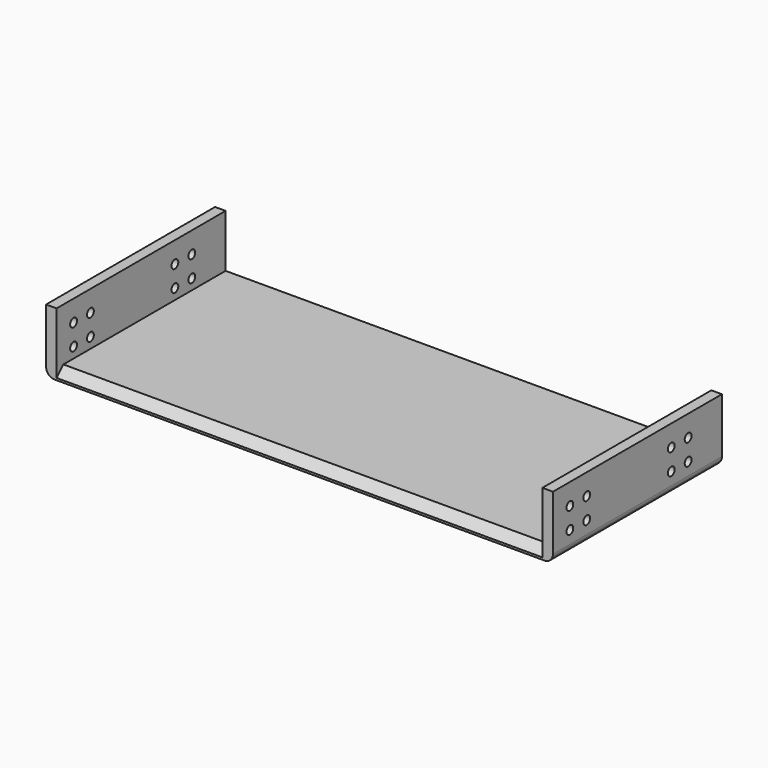
from build123d import *

# Parameters (mm, degrees)
F1_DEPTH = 127
F2_R     = 5.08
F3_SIZE  = 5.08
F4_R     = 2.5527
F5_DEPTH = 304.801


with BuildPart() as f1:
    # F0 (on Front) → F1 (new body)
    with BuildSketch(Plane.XZ):
        Polygon((-304.8, 0), (0, 0), (0, 38.1), (-6.35, 38.1), (-6.35, 6.35), (-298.45, 6.35), (-298.45, 38.1), (-304.8, 38.1), align=None)
    extrude(amount=-F1_DEPTH)

    # F2
    f2_edges = [f1.edges().sort_by_distance(p)[0] for p in [
        (-304.8, 63.5, 0),
        (0, 63.5, 0),
    ]]
    fillet(f2_edges, radius=F2_R)

    # F3
    f3_edges = [f1.edges().sort_by_distance(p)[0] for p in [
        (-152.4, 0, 6.35),
    ]]
    chamfer(f3_edges, length=F3_SIZE)

    # F4 (on Right) → F5 (cut, through all)
    with BuildSketch(Plane.YZ):
        with Locations((12.7, 12.7)):
            Circle(F4_R)
        with Locations((12.7, 25.4)):
            Circle(F4_R)
        with Locations((25.4, 25.4)):
            Circle(F4_R)
        with Locations((25.4, 12.7)):
            Circle(F4_R)
        with Locations((88.9, 12.7)):
            Circle(F4_R)
        with Locations((101.6, 12.7)):
            Circle(F4_R)
        with Locations((101.6, 25.4)):
            Circle(F4_R)
        with Locations((88.9, 25.4)):
            Circle(F4_R)
    extrude(amount=-F5_DEPTH, mode=Mode.SUBTRACT)


solid = f1.part
